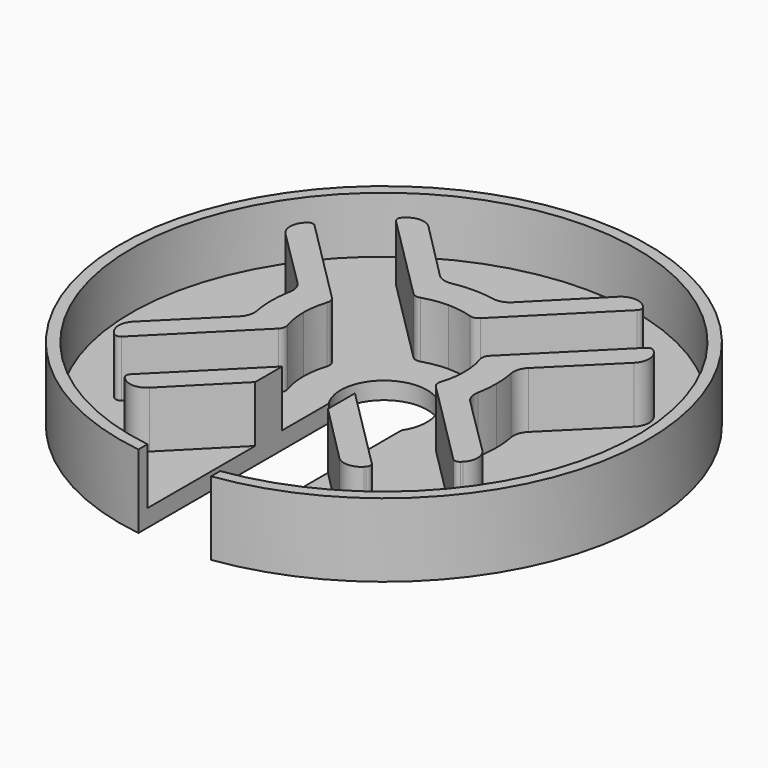
from build123d import *

# Parameters (mm, degrees)
F0_R     = 15.25
F1_DEPTH = 1
F2_R     = 15.25
F2_R_2   = 14.6
F3_DEPTH = 3.25
F5_DEPTH = 4.251


with BuildPart() as f1:
    # F0 (on Top) → F1 (new body)
    with BuildSketch(Plane.XY):
        Circle(F0_R)
    extrude(amount=-F1_DEPTH)

    # F2 (on Top) → F3 (join)
    with BuildSketch(Plane.XY):
        Circle(F2_R)
        Circle(F2_R_2, mode=Mode.SUBTRACT)
        with BuildLine():
            ThreePointArc((1.4254005383, 4.426142034), (1.6960254298, 4.4160388114), (1.932222804, 4.5485178944))
            Line((1.932222804, 4.5485178944), (6.9650017947, 9.5812968851))
            ThreePointArc((6.9650017947, 9.5812968851), (7.0528697603, 9.7934289194), (6.9650017947, 10.0055609538))
            Line((6.9650017947, 10.0055609538), (6.8967918056, 10.0737709429))
            ThreePointArc((6.8967918056, 10.0737709429), (6.1879198942, 10.3666626039), (5.4800863823, 10.0712702695))
            Line((5.4800863823, 10.0712702695), (2.0984543523, 6.6656774564))
            ThreePointArc((2.0984543523, 6.6656774564), (1.6856522801, 6.4153428351), (1.2036749488, 6.3875790889))
            ThreePointArc((1.2036749488, 6.3875790889), (0.6044567486, 6.4718337462), (0, 6.5))
            ThreePointArc((0, 6.5), (-0.6044567486, 6.4718337462), (-1.2036749488, 6.3875790889))
            ThreePointArc((-1.2036749488, 6.3875790889), (-1.6856522801, 6.4153428351), (-2.0984543523, 6.6656774564))
            Line((-2.0984543523, 6.6656774564), (-5.4800863823, 10.0712702695))
            ThreePointArc((-5.4800863823, 10.0712702695), (-6.1879198942, 10.3666626039), (-6.8967918056, 10.0737709429))
            Line((-6.8967918056, 10.0737709429), (-6.9650017947, 10.0055609538))
            ThreePointArc((-6.9650017947, 10.0055609538), (-7.0528697603, 9.7934289194), (-6.9650017947, 9.5812968851))
            Line((-6.9650017947, 9.5812968851), (-1.932222804, 4.5485178944))
            ThreePointArc((-1.932222804, 4.5485178944), (-1.6960254298, 4.4160388114), (-1.4254005383, 4.426142034))
            ThreePointArc((-1.4254005383, 4.426142034), (-0.7214359091, 4.5936946164), (0, 4.65))
            ThreePointArc((0, 4.65), (0.7214359091, 4.5936946164), (1.4254005383, 4.426142034))
        make_face()
        with BuildLine():
            Line((10.0737709429, 6.8967918056), (10.0055609538, 6.9650017947))
            ThreePointArc((10.0055609538, 6.9650017947), (9.7934289194, 7.0528697603), (9.5812968851, 6.9650017947))
            Line((9.5812968851, 6.9650017947), (4.5485178944, 1.932222804))
            ThreePointArc((4.5485178944, 1.932222804), (4.4160388114, 1.6960254298), (4.426142034, 1.4254005383))
            ThreePointArc((4.426142034, 1.4254005383), (4.5936946164, 0.7214359091), (4.65, 0))
            ThreePointArc((4.65, 0), (4.5936946164, -0.7214359091), (4.426142034, -1.4254005383))
            ThreePointArc((4.426142034, -1.4254005383), (4.4160388114, -1.6960254298), (4.5485178944, -1.932222804))
            Line((4.5485178944, -1.932222804), (9.5812968851, -6.9650017947))
            ThreePointArc((9.5812968851, -6.9650017947), (9.7934289194, -7.0528697603), (10.0055609538, -6.9650017947))
            Line((10.0055609538, -6.9650017947), (10.0737709429, -6.8967918056))
            ThreePointArc((10.0737709429, -6.8967918056), (10.3666626039, -6.1879198942), (10.0712702695, -5.4800863823))
            Line((10.0712702695, -5.4800863823), (6.6656774564, -2.0984543523))
            ThreePointArc((6.6656774564, -2.0984543523), (6.4153428351, -1.6856522801), (6.3875790889, -1.2036749488))
            ThreePointArc((6.3875790889, -1.2036749488), (6.4718337462, -0.6044567486), (6.5, 0))
            ThreePointArc((6.5, 0), (6.4718337462, 0.6044567486), (6.3875790889, 1.2036749488))
            ThreePointArc((6.3875790889, 1.2036749488), (6.4153428351, 1.6856522801), (6.6656774564, 2.0984543523))
            Line((6.6656774564, 2.0984543523), (10.0712702695, 5.4800863823))
            ThreePointArc((10.0712702695, 5.4800863823), (10.3666626039, 6.1879198942), (10.0737709429, 6.8967918056))
        make_face()
        with BuildLine():
            ThreePointArc((-9.5812968851, 6.9650017947), (-9.7934289194, 7.0528697603), (-10.0055609538, 6.9650017947))
            Line((-10.0055609538, 6.9650017947), (-10.0737709429, 6.8967918056))
            ThreePointArc((-10.0737709429, 6.8967918056), (-10.3666626039, 6.1879198942), (-10.0712702695, 5.4800863823))
            Line((-10.0712702695, 5.4800863823), (-6.6656774564, 2.0984543523))
            ThreePointArc((-6.6656774564, 2.0984543523), (-6.4153428351, 1.6856522801), (-6.3875790889, 1.2036749488))
            ThreePointArc((-6.3875790889, 1.2036749488), (-6.4718337462, 0.6044567486), (-6.5, 0))
            ThreePointArc((-6.5, 0), (-6.4718337462, -0.6044567486), (-6.3875790889, -1.2036749488))
            ThreePointArc((-6.3875790889, -1.2036749488), (-6.4153428351, -1.6856522801), (-6.6656774564, -2.0984543523))
            Line((-6.6656774564, -2.0984543523), (-10.0712702695, -5.4800863823))
            ThreePointArc((-10.0712702695, -5.4800863823), (-10.3666626039, -6.1879198942), (-10.0737709429, -6.8967918056))
            Line((-10.0737709429, -6.8967918056), (-10.0055609538, -6.9650017947))
            ThreePointArc((-10.0055609538, -6.9650017947), (-9.7934289194, -7.0528697603), (-9.5812968851, -6.9650017947))
            Line((-9.5812968851, -6.9650017947), (-4.5485178944, -1.932222804))
            ThreePointArc((-4.5485178944, -1.932222804), (-4.4160388114, -1.6960254298), (-4.426142034, -1.4254005383))
            ThreePointArc((-4.426142034, -1.4254005383), (-4.5936946164, -0.7214359091), (-4.65, 0))
            ThreePointArc((-4.65, 0), (-4.5936946164, 0.7214359091), (-4.426142034, 1.4254005383))
            ThreePointArc((-4.426142034, 1.4254005383), (-4.4160388114, 1.6960254298), (-4.5485178944, 1.932222804))
            Line((-4.5485178944, 1.932222804), (-9.5812968851, 6.9650017947))
        make_face()
        with BuildLine():
            ThreePointArc((-6.9650017947, -9.5812968851), (-7.0528697603, -9.7934289194), (-6.9650017947, -10.0055609538))
            Line((-6.9650017947, -10.0055609538), (-6.8967918056, -10.0737709429))
            ThreePointArc((-6.8967918056, -10.0737709429), (-6.1879198942, -10.3666626039), (-5.4800863823, -10.0712702695))
            Line((-5.4800863823, -10.0712702695), (-2.0984543523, -6.6656774564))
            ThreePointArc((-2.0984543523, -6.6656774564), (-1.6856522801, -6.4153428351), (-1.2036749488, -6.3875790889))
            ThreePointArc((-1.2036749488, -6.3875790889), (-0.6044567486, -6.4718337462), (0, -6.5))
            ThreePointArc((0, -6.5), (0.6044567486, -6.4718337462), (1.2036749488, -6.3875790889))
            ThreePointArc((1.2036749488, -6.3875790889), (1.6856522801, -6.4153428351), (2.0984543523, -6.6656774564))
            Line((2.0984543523, -6.6656774564), (5.4800863823, -10.0712702695))
            ThreePointArc((5.4800863823, -10.0712702695), (6.1879198942, -10.3666626039), (6.8967918056, -10.0737709429))
            Line((6.8967918056, -10.0737709429), (6.9650017947, -10.0055609538))
            ThreePointArc((6.9650017947, -10.0055609538), (7.0528697603, -9.7934289194), (6.9650017947, -9.5812968851))
            Line((6.9650017947, -9.5812968851), (1.932222804, -4.5485178944))
            ThreePointArc((1.932222804, -4.5485178944), (1.6960254298, -4.4160388114), (1.4254005383, -4.426142034))
            ThreePointArc((1.4254005383, -4.426142034), (0.7214359091, -4.5936946164), (0, -4.65))
            ThreePointArc((0, -4.65), (-0.7214359091, -4.5936946164), (-1.4254005383, -4.426142034))
            ThreePointArc((-1.4254005383, -4.426142034), (-1.6960254298, -4.4160388114), (-1.932222804, -4.5485178944))
            Line((-1.932222804, -4.5485178944), (-6.9650017947, -9.5812968851))
        make_face()
    extrude(amount=F3_DEPTH)

    # F4 (on face) → F5 (cut, through all)
    with BuildSketch(Plane(origin=(0, 0, -1), x_dir=(1, 0, 0), z_dir=(0, 0, -1))):
        with BuildLine():
            Line((-2.1, 16), (-2.1, 1.3564659966))
            ThreePointArc((-2.1, 1.3564659966), (0, -2.5), (2.1, 1.3564659966))
            Line((2.1, 1.3564659966), (2.1, 16))
            Line((2.1, 16), (0, 16))
            Line((0, 16), (-2.1, 16))
        make_face()
    extrude(amount=-F5_DEPTH, mode=Mode.SUBTRACT)


solid = f1.part
